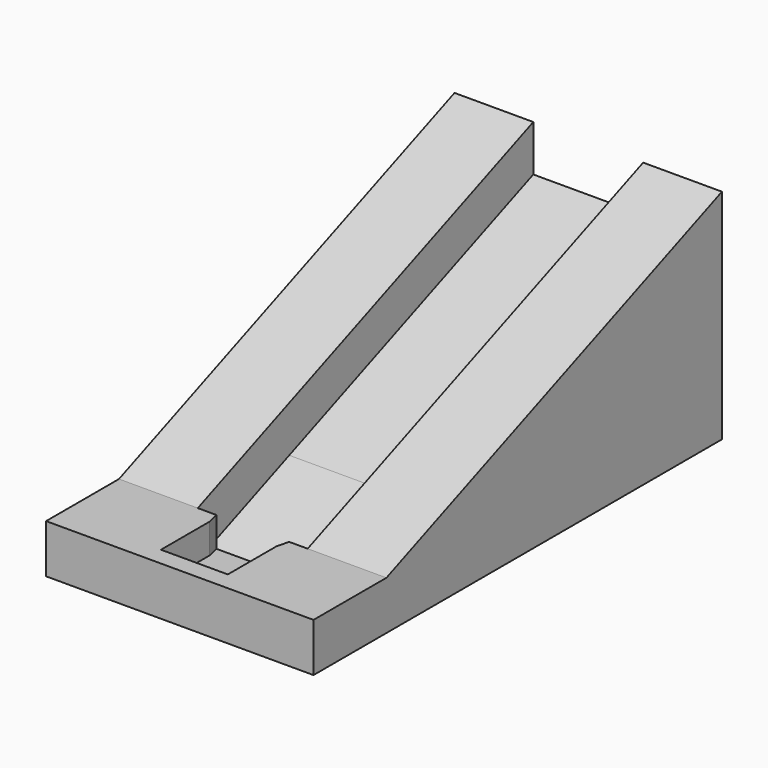
from build123d import *

# Parameters (mm, degrees)
F0_W      = 22
F0_H      = 42
F1_DEPTH  = 4
F3_DEPTH  = 2.45
F5_DEPTH  = 3.8
F7_DEPTH  = 9.04
F9_DEPTH  = 6.48
F11_DEPTH = 6.48


with BuildPart() as f1:
    # F0 (on Top) → F1 (new body)
    with BuildSketch(Plane.XY):
        with Locations((11, 21)):
            Rectangle(F0_W, F0_H)
    extrude(amount=F1_DEPTH)

    # F2 (on face) → F3 (cut)
    with BuildSketch(Plane.XY.offset(4)):
        Polygon((8.25, 6.5), (8.25, 1.5), (13.75, 1.5), (13.75, 6.5), (14, 7.5), (8, 7.5), align=None)
    extrude(amount=-F3_DEPTH, mode=Mode.SUBTRACT)

    # F4 (on face) → F5 (cut)
    with BuildSketch(Plane.XY.offset(4)):
        Polygon((8, 7.5), (11, 7.5), (14, 7.5), (15.52, 7.5), (15.52, 42), (6.48, 42), (6.48, 7.5), align=None)
    extrude(amount=-F5_DEPTH, mode=Mode.SUBTRACT)

    # F6 (on face) → F7 (join)
    with BuildSketch(Plane.YZ.offset(6.48)):
        Polygon((42, 14.138905), (16.90533, 4), (42, 4), align=None)
        Polygon((16.90533, 4), (7.5, 0.2), (36.424737, 0.2), (42, 0.2), (42, 4), align=None)
    extrude(amount=F7_DEPTH)

    # F8 (on face) → F9 (join)
    with BuildSketch(Plane.YZ.offset(15.52)):
        Polygon((16.90533, 4), (42, 14.138905), (42, 17.938905), (7.5, 4), align=None)
        Polygon((42, 4), (42, 14.138905), (16.90533, 4), align=None)
    extrude(amount=F9_DEPTH)

    # F10 (on face) → F11 (join)
    with BuildSketch(Plane(origin=(6.48, 0, 0), x_dir=(0, -1, 0), z_dir=(-1, 0, 0))):
        Polygon((-42, 17.938905), (-42, 14.138905), (-16.90533, 4), (-7.5, 4), align=None)
        Polygon((-16.90533, 4), (-42, 14.138905), (-42, 4), align=None)
    extrude(amount=F11_DEPTH)


solid = f1.part
